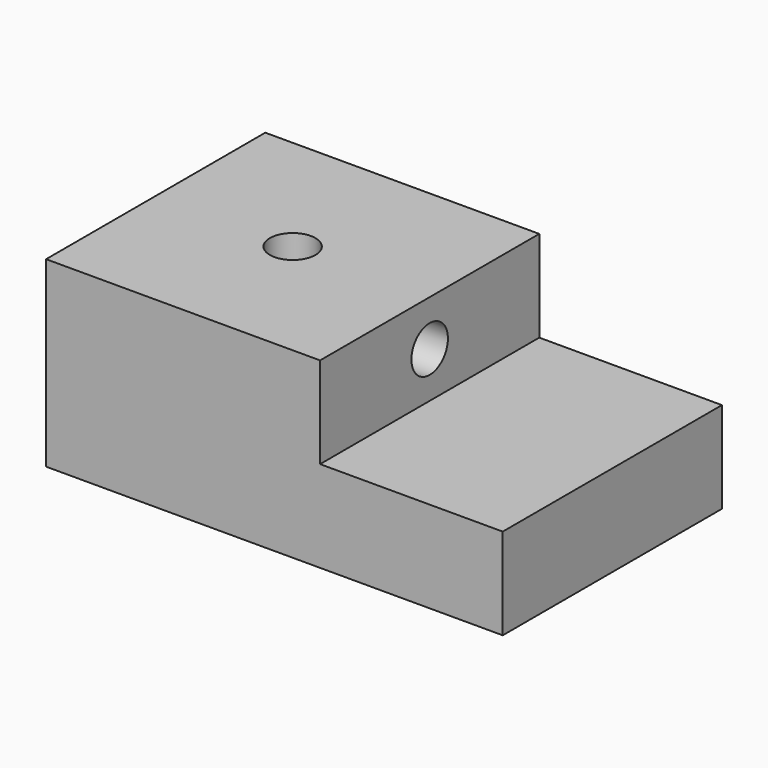
from build123d import *

# Parameters (mm, degrees)
F1_DEPTH = 76.2
F4_D     = 12.7
F5_D     = 12.7


with BuildPart() as f1:
    # F0 (on Front) → F1 (new body)
    with BuildSketch(Plane.XZ):
        Polygon((0, 50.8), (0, 0), (127, 0), (127, 25.4), (76.2, 25.4), (76.2, 50.8), (55.7977, 50.8), align=None)
    extrude(amount=F1_DEPTH)

    # F4 (through all)
    with Locations(Plane.XY.offset(50.8)):
        with Locations((38.1, -38.1)):
            Hole(F4_D / 2)

    # F5 (through all)
    with Locations(Plane.YZ.offset(76.2)):
        with Locations((-38.1, 38.1)):
            Hole(F5_D / 2)


solid = f1.part
